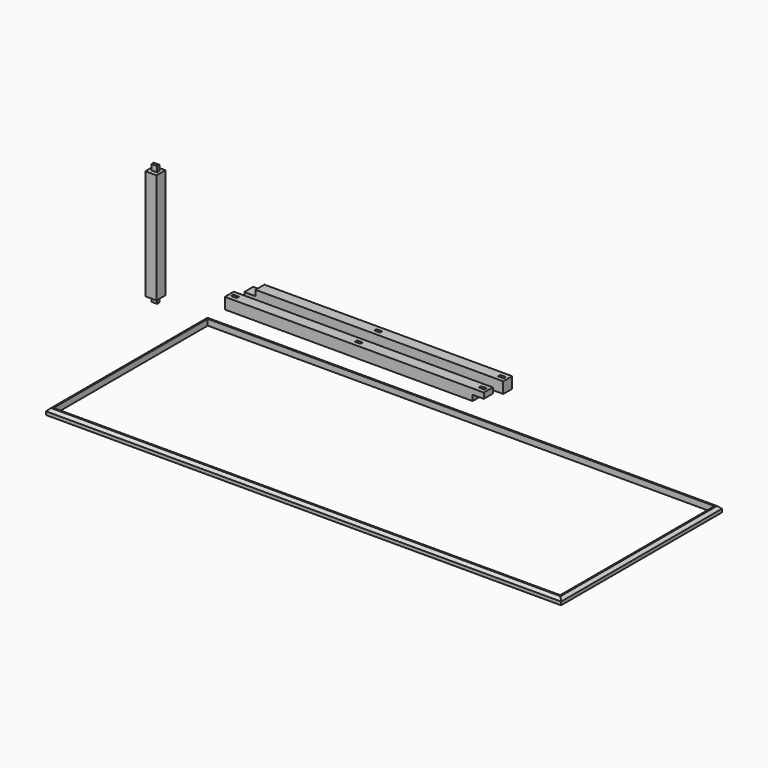
from build123d import *

# Parameters (mm, degrees)
F3_W      = 203.2
F3_H      = 203.2
F4_DEPTH  = 4701.6
F5_W      = 101.6
F5_H      = 50.8
F6_DEPTH  = 101.6
F7_W      = 203.2
F7_H      = 203.2
F8_DEPTH  = 101.6
F9_DEPTH  = 101.6
F10_W     = 203.2
F10_H     = 203.2
F11_DEPTH = 4701.6
F12_W     = 203.2
F12_H     = 203.2
F13_DEPTH = 101.6
F14_W     = 101.6
F14_H     = 50.8
F15_DEPTH = 101.6
F16_W     = 203.2
F16_H     = 203.2
F17_DEPTH = 2000
F18_W     = 101.6
F18_H     = 50.8
F19_DEPTH = 101.6
F20_W     = 101.6
F20_H     = 50.8
F21_DEPTH = 101.6


with BuildPart() as f2:
    # F2: sweep along a path in F0
    with BuildLine(Plane.XY) as f2_path:
        Line((0, 0), (9200, 0))
        Line((9200, 0), (9200, -3500))
        Line((9200, -3500), (0, -3500))
        Line((0, -3500), (0, 0))
    # F1 (on Right) → F2 (sweep)
    with BuildSketch(Plane.YZ):
        Polygon((0, 8.6390003562), (0, 0), (0, -100), (75, -100), (75, -40), (25, 8.6390003562), align=None)
    sweep(path=f2_path.line, transition=Transition.RIGHT)

    # F7 (on face) → F9 (cut)
    with BuildSketch(Plane(origin=(0, 0, 0), x_dir=(1, 0, 0), z_dir=(0, 0, -1))):
        with Locations((4600, -489.5927694798)):
            Rectangle(F7_W, F7_H)
    extrude(amount=-F9_DEPTH, mode=Mode.SUBTRACT)


with BuildPart() as f4:
    # F3 (on Right) → F4 (new body)
    with BuildSketch(Plane.YZ):
        with Locations((489.5927694798, 101.6)):
            Rectangle(F3_W, F3_H)
    extrude(amount=F4_DEPTH)

    # F5 (on face) → F6 (cut)
    with BuildSketch(Plane.XY.offset(203.2)):
        with Locations((4600, 489.5927694798)):
            Rectangle(F5_W, F5_H)
        with Locations((2350.8, 489.5927694798)):
            Rectangle(F5_W, F5_H)
        with Locations((101.6, 489.5927694798)):
            Rectangle(F5_W, F5_H)
    extrude(amount=-F6_DEPTH, mode=Mode.SUBTRACT)

    # F7 (on face) → F8 (cut)
    with BuildSketch(Plane(origin=(0, 0, 0), x_dir=(1, 0, 0), z_dir=(0, 0, -1))):
        with Locations((4600, -489.5927694798)):
            Rectangle(F7_W, F7_H)
    extrude(amount=-F8_DEPTH, mode=Mode.SUBTRACT)


with BuildPart() as f11:
    # F10 (on Right) → F11 (new body)
    with BuildSketch(Plane.YZ):
        with Locations((930.3449479103, 101.6)):
            Rectangle(F10_W, F10_H)
    extrude(amount=F11_DEPTH)

    # F12 (on face) → F13 (cut)
    with BuildSketch(Plane.XY.offset(203.2)):
        with Locations((101.6, 930.3449479103)):
            Rectangle(F12_W, F12_H)
    extrude(amount=-F13_DEPTH, mode=Mode.SUBTRACT)

    # F14 (on face) → F15 (cut)
    with BuildSketch(Plane.XY.offset(203.2)):
        with Locations((4600, 930.3449479103)):
            Rectangle(F14_W, F14_H)
        with Locations((2350.8, 930.3449479103)):
            Rectangle(F14_W, F14_H)
    extrude(amount=-F15_DEPTH, mode=Mode.SUBTRACT)


with BuildPart() as f17:
    # F16 (on Top) → F17 (new body)
    with BuildSketch(Plane.XY):
        with Locations((-1032.3763402939, 101.6)):
            Rectangle(F16_W, F16_H)
    extrude(amount=F17_DEPTH)

    # F18 (on face) → F19 (join)
    with BuildSketch(Plane.XY.offset(2000)):
        with Locations((-1032.3763402939, 101.6)):
            Rectangle(F18_W, F18_H)
    extrude(amount=F19_DEPTH)

    # F20 (on face) → F21 (join)
    with BuildSketch(Plane(origin=(0, 0, 0), x_dir=(1, 0, 0), z_dir=(0, 0, -1))):
        with Locations((-1032.3763402939, -101.6)):
            Rectangle(F20_W, F20_H)
    extrude(amount=F21_DEPTH)


solid = Compound([f2.part, f4.part, f11.part, f17.part])
